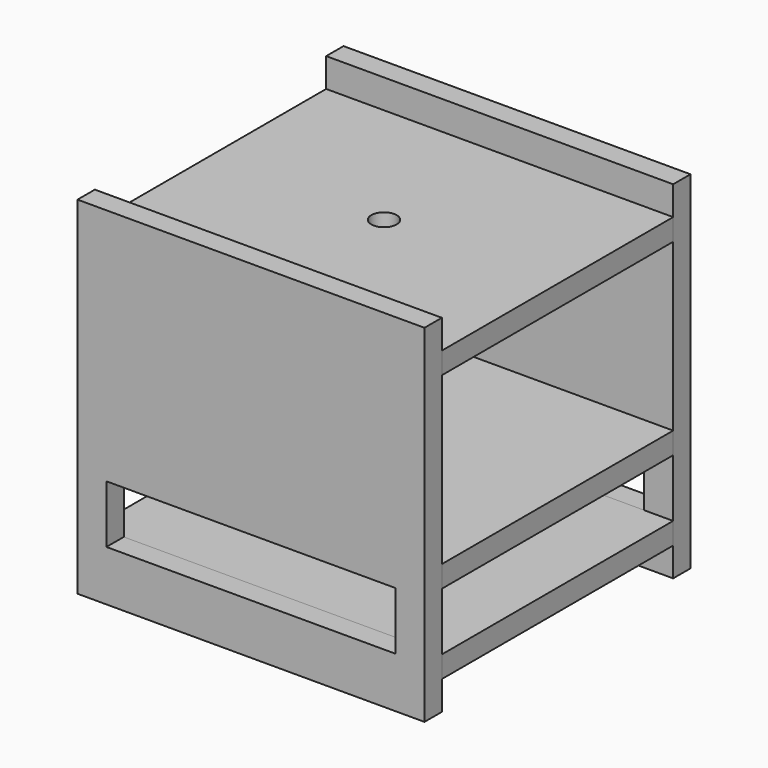
from build123d import *

# Parameters (mm, degrees)
F0_W     = 254
F0_H     = 19.05
F1_DEPTH = 304.8
F3_W     = 304.8
F3_H     = 304.8
F3_W_2   = 254
F3_H_2   = 50.8
F5_DEPTH = 19.05
F6_W     = 304.8
F6_H     = 304.8
F6_W_2   = 254
F6_H_2   = 50.8
F7_DEPTH = 19.05
F8_R     = 11.1125
F9_DEPTH = 254


with BuildPart() as f1:
    # F0 (on Right) → F1 (new body)
    with BuildSketch(Plane.YZ):
        with Locations((127, 120.7588429924)):
            Rectangle(F0_W, F0_H)
    extrude(amount=F1_DEPTH)


with BuildPart() as f1b:
    # F0 (on Right) → F1, piece 2 (new body)
    with BuildSketch(Plane.YZ):
        with Locations((127, -44.3411570076)):
            Rectangle(F0_W, F0_H)
    extrude(amount=F1_DEPTH)


with BuildPart() as f1c:
    # F0 (on Right) → F1, piece 3 (new body)
    with BuildSketch(Plane.YZ):
        with Locations((127, -114.1911570076)):
            Rectangle(F0_W, F0_H)
    extrude(amount=F1_DEPTH)


with BuildPart() as f5:
    # F3 (on offset) → F5 (new body)
    with BuildSketch(Plane(origin=(0, 254, 0), x_dir=(-1, 0, 0), z_dir=(0, 1, 0))):
        with Locations((-152.4, 3.2794754744)):
            Rectangle(F3_W, F3_H)
        with Locations((-152.4, -79.2661570076)):
            Rectangle(F3_W_2, F3_H_2, mode=Mode.SUBTRACT)
    extrude(amount=F5_DEPTH)


with BuildPart() as f7:
    # F6 (on offset) → F7 (new body)
    with BuildSketch(Plane.XZ):
        with Locations((152.4, 3.2838429924)):
            Rectangle(F6_W, F6_H)
        with Locations((152.4, -79.2661570076)):
            Rectangle(F6_W_2, F6_H_2, mode=Mode.SUBTRACT)
    extrude(amount=F7_DEPTH)


with BuildPart() as f9_tool:
    # F8 (on face) → F9 (new body)
    with BuildSketch(Plane(origin=(0, 0, -123.7161570076), x_dir=(1, 0, 0), z_dir=(0, 0, -1))):
        with Locations((152.4, -127)):
            Circle(F8_R)
    extrude(amount=-F9_DEPTH)


with BuildPart() as f1_1:
    add(f1.part)

    # F9: cut by f9_tool
    add(f9_tool.part, mode=Mode.SUBTRACT)


with BuildPart() as f1b_1:
    add(f1b.part)

    # F9: cut by f9_tool
    add(f9_tool.part, mode=Mode.SUBTRACT)


with BuildPart() as f1c_1:
    add(f1c.part)

    # F9: cut by f9_tool
    add(f9_tool.part, mode=Mode.SUBTRACT)


solid = Compound([f5.part, f7.part, f1_1.part, f1b_1.part, f1c_1.part])
